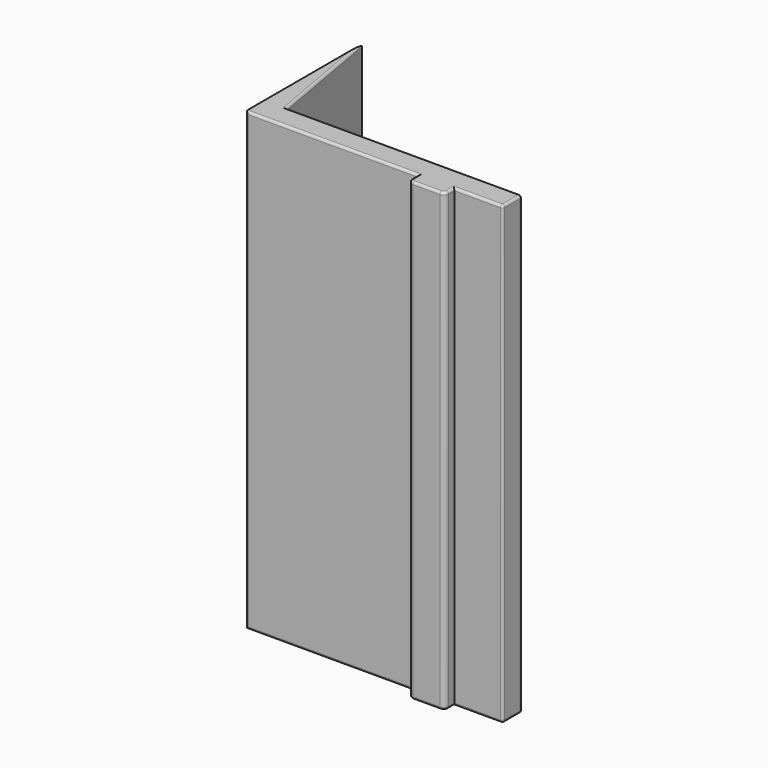
from build123d import *

# Parameters (mm, degrees)
EXTRUDE_DEPTH = 188
FILLET_R      = 1
FILLET001_R   = 2
FILLET002_R   = 1


with BuildPart() as part:
    # Sketch → Extrude (new body)
    with BuildSketch(Plane.XY):
        Polygon((0, 0), (0, 60), (8.816349, 10), (106, 10), (106, 0), (86, 0), (86, -5), (71, -5), (71, 0), align=None)
    extrude(amount=EXTRUDE_DEPTH)

    # Fillet
    fillet_edges = [part.edges().sort_by_distance(p)[0] for p in [
        (4.408175, 35, 0),
        (4.408175, 35, 188),
    ]]
    fillet(fillet_edges, radius=FILLET_R)

    # Fillet001
    fillet001_edges = [part.edges().sort_by_distance(p)[0] for p in [
        (71, -5, 94),
        (86, -5, 94),
    ]]
    fillet(fillet001_edges, radius=FILLET001_R)

    # Fillet002
    fillet002_edges = [part.edges().sort_by_distance(p)[0] for p in [
        (71, -1.5, 0),
        (78.5, -5, 0),
        (86, -1.5, 0),
        (96, 0, 0),
        (106, 5, 0),
        (57.408175, 10, 0),
        (35.5, 0, 0),
        (71, -1.5, 188),
        (35.5, 0, 188),
        (0, 0, 94),
        (78.5, -5, 188),
        (86, -1.5, 188),
        (57.408175, 10, 188),
        (106, 10, 94),
        (106, 0, 94),
        (96, 0, 188),
        (106, 5, 188),
    ]]
    fillet(fillet002_edges, radius=FILLET002_R)


solid = part.part
